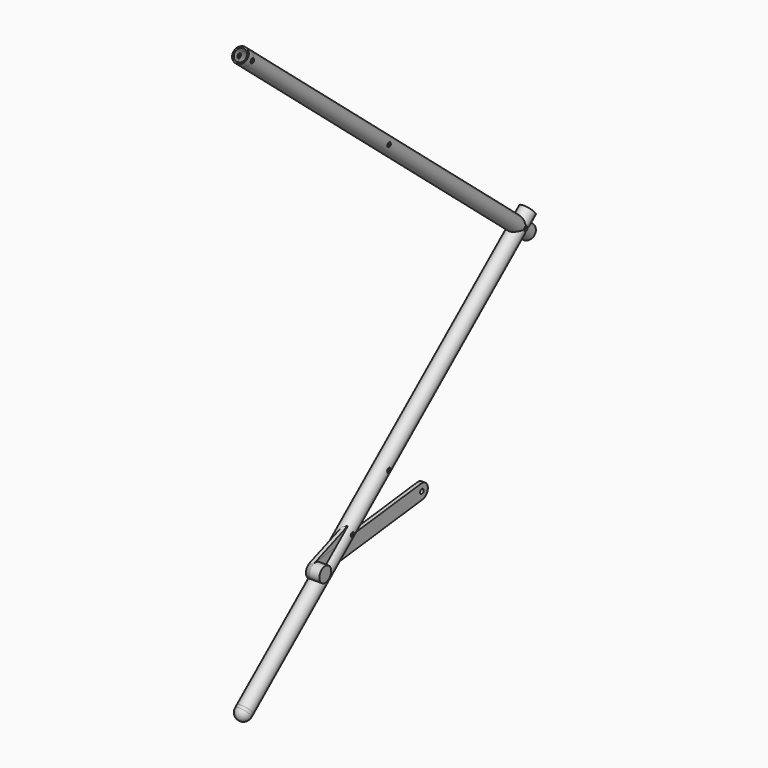
from build123d import *

# Parameters (mm, degrees)
F3_R      = 5
F3_R_2    = 4
F6_R      = 5
F6_R_2    = 4
F9_DEPTH  = 12.5
F11_DEPTH = 2.5
F13_DEPTH = 2.5
F14_DEPTH = 12.5
F15_DEPTH = 9


with BuildPart() as f4:
    # F4: sweep along a path in F1
    with BuildLine(Plane.YZ) as f4_path:
        Line((-114.9066664678, 5), (114.9066664678, 197.836282906))
        Line((114.9066664678, 197.836282906), (122.567110899, 204.2641590028))
    # F3 (on line) → F4 (sweep)
    with BuildSketch(Plane(origin=(0, -64.9679804684, -54.5146084493), x_dir=(-1, 0, 0), z_dir=(0, 0.7660444431, 0.6427876097))):
        with Locations((0, 77.6908036915)):
            Circle(F3_R)
        with Locations((0, 77.6908036915)):
            Circle(F3_R_2, mode=Mode.SUBTRACT)
    sweep(path=f4_path.line)


with BuildPart() as f7:
    # F7: sweep along a path in F1
    with BuildLine(Plane.YZ) as f7_path:
        Line((122.567110899, 191.4084068091), (114.9066664678, 197.836282906))
        Line((114.9066664678, 197.836282906), (-114.9066664678, 390.6725658119))
        Line((-114.9066664678, 390.6725658119), (-118.7368886834, 393.8865038604))
    # F6 (on line) → F7 (sweep)
    with BuildSketch(Plane(origin=(0, -22.3249083344, 18.7328223494), x_dir=(1, 0, 0), z_dir=(0, -0.7660444431, 0.6427876097))):
        with Locations((0, 225.4119666433)):
            Circle(F6_R)
        with Locations((0, 225.4119666433)):
            Circle(F6_R_2, mode=Mode.SUBTRACT)
    sweep(path=f7_path.line)


with BuildPart() as f8:
    # F1 (on Right) → F8 (revolve)
    with BuildSketch(Plane.YZ):
        with BuildLine():
            Line((-112.3355160291, 1.9358222275), (-114.9066664678, 5))
            Line((-114.9066664678, 5), (-120.1309755605, 0.6162841672))
            ThreePointArc((-120.1309755605, 0.6162841672), (-116.7365320587, -1.1507512749), (-113.0868152965, 0))
            Line((-113.0868152965, 0), (-111.6927284194, 1.1697777844))
            Line((-111.6927284194, 1.1697777844), (-112.3355160291, 1.9358222275))
        make_face()
        Polygon((-109.2713382566, 4.5069726663), (-111.8424886954, 7.5711504387), (-114.9066664678, 5), (-112.3355160291, 1.9358222275), align=None)
    revolve(axis=Axis((0, 0, 101.418141453), (0, 0.7660444431, 0.6427876097)))


with BuildPart() as f9_tool:
    # F1 (on Right) → F9 (new body, symmetric)
    with BuildSketch(Plane.YZ):
        with BuildLine():
            Line((-1.1490666647, 100.4539600385), (0, 101.418141453))
            Line((0, 101.418141453), (-1.1490666647, 102.3823228675))
            ThreePointArc((-1.1490666647, 102.3823228675), (-1.5, 101.418141453), (-1.1490666647, 100.4539600385))
        make_face()
        with BuildLine():
            Line((-1.1490666647, 102.3823228675), (0, 101.418141453))
            Line((0, 101.418141453), (1.1490666647, 102.3823228675))
            ThreePointArc((1.1490666647, 102.3823228675), (0, 102.918141453), (-1.1490666647, 102.3823228675))
        make_face()
        with BuildLine():
            Line((0, 101.418141453), (1.1490666647, 100.4539600385))
            ThreePointArc((1.1490666647, 100.4539600385), (1.4095389312, 100.905111238), (1.5, 101.418141453))
            ThreePointArc((1.5, 101.418141453), (1.4095389312, 101.931171668), (1.1490666647, 102.3823228675))
            Line((1.1490666647, 102.3823228675), (0, 101.418141453))
        make_face()
        with BuildLine():
            ThreePointArc((-1.1490666647, 100.4539600385), (0, 99.918141453), (1.1490666647, 100.4539600385))
            Line((1.1490666647, 100.4539600385), (0, 101.418141453))
            Line((0, 101.418141453), (-1.1490666647, 100.4539600385))
        make_face()
        with BuildLine():
            ThreePointArc((113.7575998032, 198.8004643205), (113.4066664678, 197.836282906), (113.7575998032, 196.8721014914))
            Line((113.7575998032, 196.8721014914), (114.9066664678, 197.836282906))
            Line((114.9066664678, 197.836282906), (113.7575998032, 198.8004643205))
        make_face()
        with BuildLine():
            Line((113.7575998032, 198.8004643205), (114.9066664678, 197.836282906))
            Line((114.9066664678, 197.836282906), (116.0557331325, 198.8004643205))
            ThreePointArc((116.0557331325, 198.8004643205), (114.9066664678, 199.336282906), (113.7575998032, 198.8004643205))
        make_face()
        with BuildLine():
            Line((116.0557331325, 198.8004643205), (114.9066664678, 197.836282906))
            Line((114.9066664678, 197.836282906), (116.0557331325, 196.8721014914))
            ThreePointArc((116.0557331325, 196.8721014914), (116.316205399, 197.323252691), (116.4066664678, 197.836282906))
            ThreePointArc((116.4066664678, 197.836282906), (116.316205399, 198.349313121), (116.0557331325, 198.8004643205))
        make_face()
        with BuildLine():
            Line((114.9066664678, 197.836282906), (113.7575998032, 196.8721014914))
            ThreePointArc((113.7575998032, 196.8721014914), (114.9066664678, 196.336282906), (116.0557331325, 196.8721014914))
            Line((116.0557331325, 196.8721014914), (114.9066664678, 197.836282906))
        make_face()
        with BuildLine():
            ThreePointArc((-1.1490666647, 295.2186057735), (-1.5, 294.2544243589), (-1.1490666647, 293.2902429444))
            Line((-1.1490666647, 293.2902429444), (0, 294.2544243589))
            Line((0, 294.2544243589), (-1.1490666647, 295.2186057735))
        make_face()
        with BuildLine():
            Line((-1.1490666647, 295.2186057735), (0, 294.2544243589))
            Line((0, 294.2544243589), (1.1490666647, 295.2186057735))
            ThreePointArc((1.1490666647, 295.2186057735), (0, 295.7544243589), (-1.1490666647, 295.2186057735))
        make_face()
        with BuildLine():
            Line((1.1490666647, 295.2186057735), (0, 294.2544243589))
            Line((0, 294.2544243589), (1.1490666647, 293.2902429444))
            ThreePointArc((1.1490666647, 293.2902429444), (1.4095389312, 293.741394144), (1.5, 294.2544243589))
            ThreePointArc((1.5, 294.2544243589), (1.4095389312, 294.7674545739), (1.1490666647, 295.2186057735))
        make_face()
        with BuildLine():
            Line((0, 294.2544243589), (-1.1490666647, 293.2902429444))
            ThreePointArc((-1.1490666647, 293.2902429444), (0, 292.7544243589), (1.1490666647, 293.2902429444))
            Line((1.1490666647, 293.2902429444), (0, 294.2544243589))
        make_face()
        with BuildLine():
            ThreePointArc((-116.0557331325, 391.6367472265), (-115.8708478824, 389.5234991472), (-113.7575998032, 389.7083843974))
            Line((-113.7575998032, 389.7083843974), (-114.9066664678, 390.6725658119))
            Line((-114.9066664678, 390.6725658119), (-116.0557331325, 391.6367472265))
        make_face()
        with BuildLine():
            Line((-116.0557331325, 391.6367472265), (-114.9066664678, 390.6725658119))
            Line((-114.9066664678, 390.6725658119), (-113.7575998032, 391.6367472265))
            ThreePointArc((-113.7575998032, 391.6367472265), (-114.9066664678, 392.1725658119), (-116.0557331325, 391.6367472265))
        make_face()
        with BuildLine():
            Line((-114.9066664678, 390.6725658119), (-113.7575998032, 389.7083843974))
            ThreePointArc((-113.7575998032, 389.7083843974), (-113.4971275367, 390.1595355969), (-113.4066664678, 390.6725658119))
            ThreePointArc((-113.4066664678, 390.6725658119), (-113.4971275367, 391.1855960269), (-113.7575998032, 391.6367472265))
            Line((-113.7575998032, 391.6367472265), (-114.9066664678, 390.6725658119))
        make_face()
    extrude(amount=F9_DEPTH, both=True)


with BuildPart() as f4_1:
    add(f4.part)

    # F9: cut by f9_tool
    add(f9_tool.part, mode=Mode.SUBTRACT)

    # F10 (on Right) → F14 (cut, symmetric)
    with BuildSketch(Plane.YZ):
        with BuildLine():
            ThreePointArc((-32.0439059177, 75.1736862887), (-30.3708462661, 74.2313079006), (-29.1417777248, 75.7066370655))
            ThreePointArc((-29.1417777248, 75.7066370655), (-30.9127091834, 77.1819662304), (-32.0439059177, 75.1736862887))
        make_face()
    extrude(amount=F14_DEPTH, both=True, mode=Mode.SUBTRACT)


with BuildPart() as f7_1:
    add(f7.part)

    # F9: cut by f9_tool
    add(f9_tool.part, mode=Mode.SUBTRACT)


with BuildPart() as f11:
    # F10 (on Right) → F11 (new body)
    with BuildSketch(Plane.YZ):
        with BuildLine():
            ThreePointArc((-28.8652751354, 71.0328764223), (-25.9680170816, 77.4831396549), (-32.4182803141, 80.3803977087))
            Line((-32.4182803141, 80.3803977087), (-60.4608441733, 69.7213821724))
            ThreePointArc((-60.4608441733, 69.7213821724), (-63.3581022272, 63.2711189398), (-56.9078389946, 60.373860886))
            Line((-56.9078389946, 60.373860886), (-28.8652751354, 71.0328764223))
        make_face()
        with BuildLine():
            ThreePointArc((-57.184341584, 65.0476215292), (-60.1596707488, 64.7766900706), (-57.282213391, 65.580572306))
            ThreePointArc((-57.282213391, 65.580572306), (-57.2090124191, 65.3185529879), (-57.184341584, 65.0476215292))
        make_face(mode=Mode.SUBTRACT)
        with BuildLine():
            ThreePointArc((-32.0439059177, 75.1736862887), (-30.9127091834, 77.1819662304), (-29.1417777248, 75.7066370655))
            ThreePointArc((-29.1417777248, 75.7066370655), (-30.3708462661, 74.2313079006), (-32.0439059177, 75.1736862887))
        make_face(mode=Mode.SUBTRACT)
    extrude(amount=F11_DEPTH)


with BuildPart() as f13:
    # F12 (on Right) → F13 (new body)
    with BuildSketch(Plane.YZ):
        with BuildLine():
            ThreePointArc((-59.2767735655, 70.0123999077), (-63.6491199624, 64.4551895476), (-58.0919096024, 60.0828431508))
            Line((-58.0919096024, 60.0828431508), (31.2342097064, 70.7418586871))
            ThreePointArc((31.2342097064, 70.7418586871), (35.6065561032, 76.2990690471), (30.0493457432, 80.671415444))
            Line((30.0493457432, 80.671415444), (-59.2767735655, 70.0123999077))
        make_face()
        with BuildLine():
            ThreePointArc((-57.184341584, 65.0476215292), (-60.1816976322, 64.9585998192), (-57.1949080704, 65.2253511237))
            ThreePointArc((-57.1949080704, 65.2253511237), (-57.1869855357, 65.1366432392), (-57.184341584, 65.0476215292))
        make_face(mode=Mode.SUBTRACT)
        with BuildLine():
            ThreePointArc((32.1417777248, 75.7066370655), (30.7307994347, 74.2092810173), (29.1523442112, 75.528907471))
            ThreePointArc((29.1523442112, 75.528907471), (30.5527560148, 77.2039931137), (32.1417777248, 75.7066370655))
        make_face(mode=Mode.SUBTRACT)
    extrude(amount=F13_DEPTH)


with BuildPart() as f15:
    # F1 (on Right) → F15 (new body)
    with BuildSketch(Plane.YZ):
        with BuildLine():
            ThreePointArc((-53.684341584, 65.0476215292), (-53.6931547565, 65.3443605625), (-53.7195632055, 65.6400535108))
            Line((-53.7195632055, 65.6400535108), (-58.684341584, 65.0476215292))
            Line((-58.684341584, 65.0476215292), (-54.0105809408, 66.8241241186))
            ThreePointArc((-54.0105809408, 66.8241241186), (-63.4007126744, 66.7076949425), (-56.1537265853, 60.7353149853))
            ThreePointArc((-56.1537265853, 60.7353149853), (-54.3453857768, 62.5629761816), (-53.684341584, 65.0476215292))
        make_face()
        with BuildLine():
            Line((-58.684341584, 65.0476215292), (-53.7195632055, 65.6400535108))
            ThreePointArc((-53.7195632055, 65.6400535108), (-53.8288432142, 66.2409930476), (-54.0105809408, 66.8241241186))
            Line((-54.0105809408, 66.8241241186), (-58.684341584, 65.0476215292))
        make_face()
    extrude(amount=F15_DEPTH)


solid = Compound([f8.part, f4_1.part, f7_1.part, f11.part, f13.part, f15.part])
